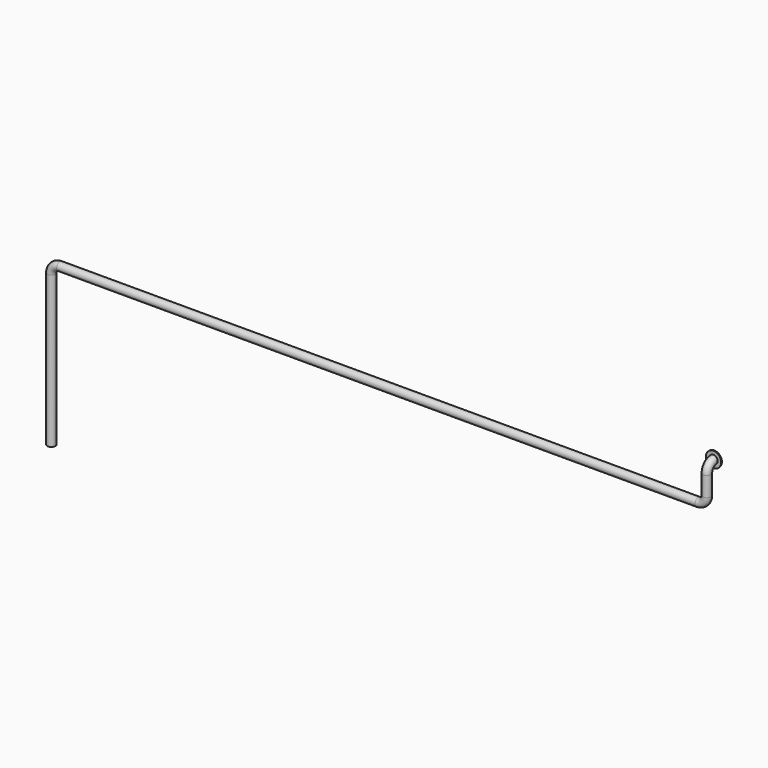
from build123d import *

# Parameters (mm, degrees)
F0_R     = 67.5
F0_R_2   = 125
F5_DEPTH = 15


with BuildPart() as f4:
    # F4: sweep along a path in F1, F3
    with BuildLine(Plane.YZ) as f4_path:
        Line((0, 0), (-10, 0))
        ThreePointArc((-10, 0), (-108.9949493661, -41.0050506339), (-150, -140))
    with BuildLine(Plane.XZ.offset(150)) as f4_path_2:
        Line((0, -140), (0, -460))
        ThreePointArc((0, -460), (-41.0050506339, -558.9949493661), (-140, -600))
        Line((-140, -600), (-10560, -600))
        ThreePointArc((-10560, -600), (-10658.9949493661, -641.0050506339), (-10700, -740))
        Line((-10700, -740), (-10700, -3210))
    # F0 (on Front) → F4 (sweep)
    with BuildSketch(Plane.XZ):
        Circle(F0_R)
    sweep(path=f4_path.line + f4_path_2.line)

    # F0 (on Front) → F5 (join)
    with BuildSketch(Plane.XZ):
        Circle(F0_R_2)
        Circle(F0_R, mode=Mode.SUBTRACT)
    extrude(amount=F5_DEPTH)


solid = f4.part
